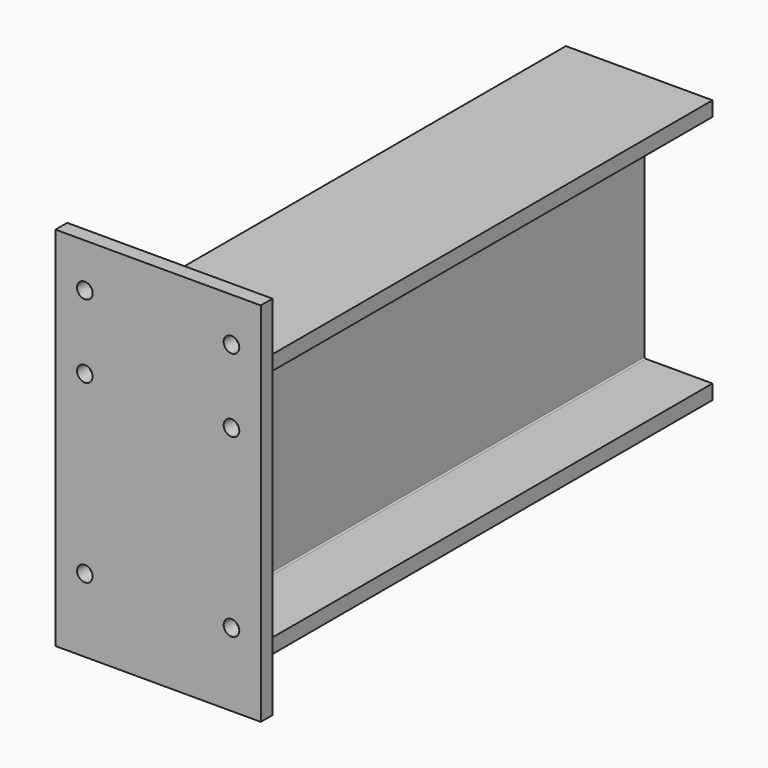
from build123d import *

# Parameters (mm, degrees)
F1_DEPTH = 508
F2_W     = 355.6
F2_H     = 635
F3_DEPTH = 25.4
F4_D     = 26.9875
F4_DEPTH = 25.4
F4_TIP   = 8.107862978


with BuildPart() as f1:
    # F0 (on Front) → F1 (new body, symmetric)
    with BuildSketch(Plane.XZ):
        with BuildLine():
            Line((127, -228.6), (127, -203.2))
            Line((127, -203.2), (12.065, -203.2))
            ThreePointArc((12.065, -203.2), (10.2689487758, -202.4560512242), (9.525, -200.66))
            Line((9.525, -200.66), (9.525, 200.66))
            ThreePointArc((9.525, 200.66), (10.2689487758, 202.4560512242), (12.065, 203.2))
            Line((12.065, 203.2), (127, 203.2))
            Line((127, 203.2), (127, 228.6))
            Line((127, 228.6), (-127, 228.6))
            Line((-127, 228.6), (-127, 203.2))
            Line((-127, 203.2), (-12.065, 203.2))
            ThreePointArc((-12.065, 203.2), (-10.2689487758, 202.4560512242), (-9.525, 200.66))
            Line((-9.525, 200.66), (-9.525, -200.66))
            ThreePointArc((-9.525, -200.66), (-10.2689487758, -202.4560512242), (-12.065, -203.2))
            Line((-12.065, -203.2), (-127, -203.2))
            Line((-127, -203.2), (-127, -228.6))
            Line((-127, -228.6), (127, -228.6))
        make_face()
    extrude(amount=F1_DEPTH, both=True)


with BuildPart() as f3:
    # F2 (on face) → F3 (new body)
    with BuildSketch(Plane.XZ.offset(508)):
        with Locations((0, 38.1)):
            Rectangle(F2_W, F2_H)
        with BuildLine():
            Line((-9.525, -200.66), (-9.525, 200.66))
            ThreePointArc((-9.525, 200.66), (-10.2689487758, 202.4560512242), (-12.065, 203.2))
            Line((-12.065, 203.2), (-127, 203.2))
            Line((-127, 203.2), (-127, 228.6))
            Line((-127, 228.6), (127, 228.6))
            Line((127, 228.6), (127, 203.2))
            Line((127, 203.2), (12.065, 203.2))
            ThreePointArc((12.065, 203.2), (10.2689487758, 202.4560512242), (9.525, 200.66))
            Line((9.525, 200.66), (9.525, -200.66))
            ThreePointArc((9.525, -200.66), (10.2689487758, -202.4560512242), (12.065, -203.2))
            Line((12.065, -203.2), (127, -203.2))
            Line((127, -203.2), (127, -228.6))
            Line((127, -228.6), (-127, -228.6))
            Line((-127, -228.6), (-127, -203.2))
            Line((-127, -203.2), (-12.065, -203.2))
            ThreePointArc((-12.065, -203.2), (-10.2689487758, -202.4560512242), (-9.525, -200.66))
        make_face(mode=Mode.SUBTRACT)
        with BuildLine():
            ThreePointArc((-12.065, 203.2), (-10.2689487758, 202.4560512242), (-9.525, 200.66))
            Line((-9.525, 200.66), (-9.525, -200.66))
            ThreePointArc((-9.525, -200.66), (-10.2689487758, -202.4560512242), (-12.065, -203.2))
            Line((-12.065, -203.2), (-127, -203.2))
            Line((-127, -203.2), (-127, -228.6))
            Line((-127, -228.6), (127, -228.6))
            Line((127, -228.6), (127, -203.2))
            Line((127, -203.2), (12.065, -203.2))
            ThreePointArc((12.065, -203.2), (10.2689487758, -202.4560512242), (9.525, -200.66))
            Line((9.525, -200.66), (9.525, 200.66))
            ThreePointArc((9.525, 200.66), (10.2689487758, 202.4560512242), (12.065, 203.2))
            Line((12.065, 203.2), (127, 203.2))
            Line((127, 203.2), (127, 228.6))
            Line((127, 228.6), (-127, 228.6))
            Line((-127, 228.6), (-127, 203.2))
            Line((-127, 203.2), (-12.065, 203.2))
        make_face()
    extrude(amount=F3_DEPTH)

    # F4
    with Locations(Plane(origin=(0, -508, 0), x_dir=(1, 0, 0), z_dir=(0, 1, 0))):
        with Locations((127, -279.4), (127, -152.4), (127, 152.4), (-127, 152.4), (-127, -152.4), (-127, -279.4)):
            Hole(F4_D / 2, depth=F4_DEPTH)
            with Locations((0, 0, -(F4_DEPTH + F4_TIP / 2))):  # 118° drill point
                Cone(0, F4_D / 2, F4_TIP, mode=Mode.SUBTRACT)


solid = Compound([f1.part, f3.part])
